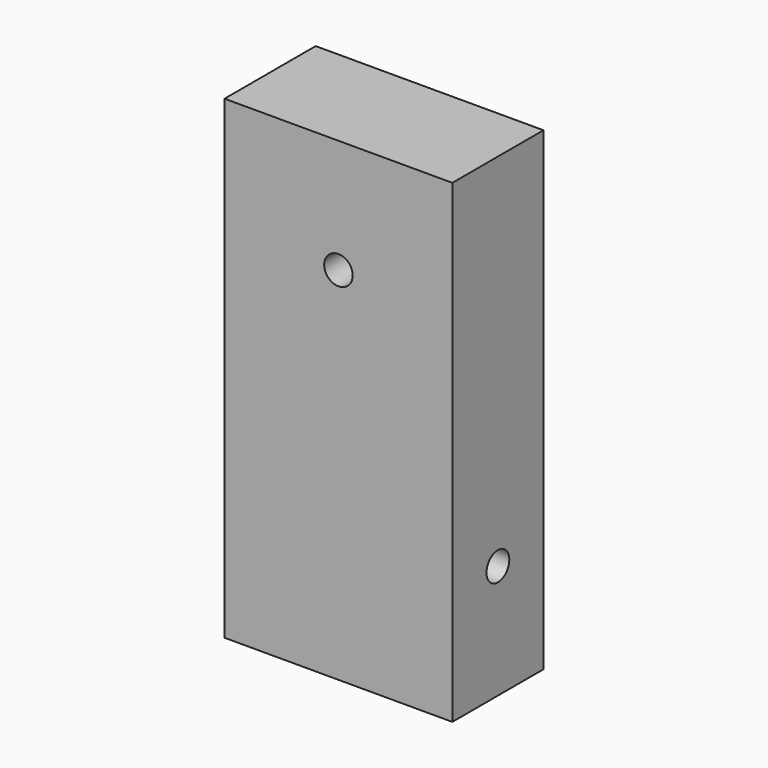
from build123d import *

# Parameters (mm, degrees)
SKETCH063_W     = 48
SKETCH063_H     = 24
PAD037_DEPTH    = 100
SKETCH064_R     = 3
POCKET026_DEPTH = 24
SKETCH065_R     = 3
POCKET027_DEPTH = 24.001


with BuildPart() as part:
    # Sketch063 → Pad037 (new body)
    with BuildSketch(Plane.XY):
        with Locations((24, 12)):
            Rectangle(SKETCH063_W, SKETCH063_H)
    extrude(amount=PAD037_DEPTH)

    # Sketch064 (on Face2 of Pad037) → Pocket026 (cut)
    with BuildSketch(Plane.YZ.offset(48)):
        with Locations((12, 24)):
            Circle(SKETCH064_R)
    extrude(amount=-POCKET026_DEPTH, mode=Mode.SUBTRACT)

    # Sketch065 (on Face1 of Pocket026) → Pocket027 (cut, through all)
    with BuildSketch(Plane.XZ):
        with Locations((24, 76)):
            Circle(SKETCH065_R)
    extrude(amount=-POCKET027_DEPTH, mode=Mode.SUBTRACT)


with BuildPart() as part_1:
    # Body043 placement: moved
    add(part.part.moved(Location((-928, 0, 26))))


solid = part_1.part
